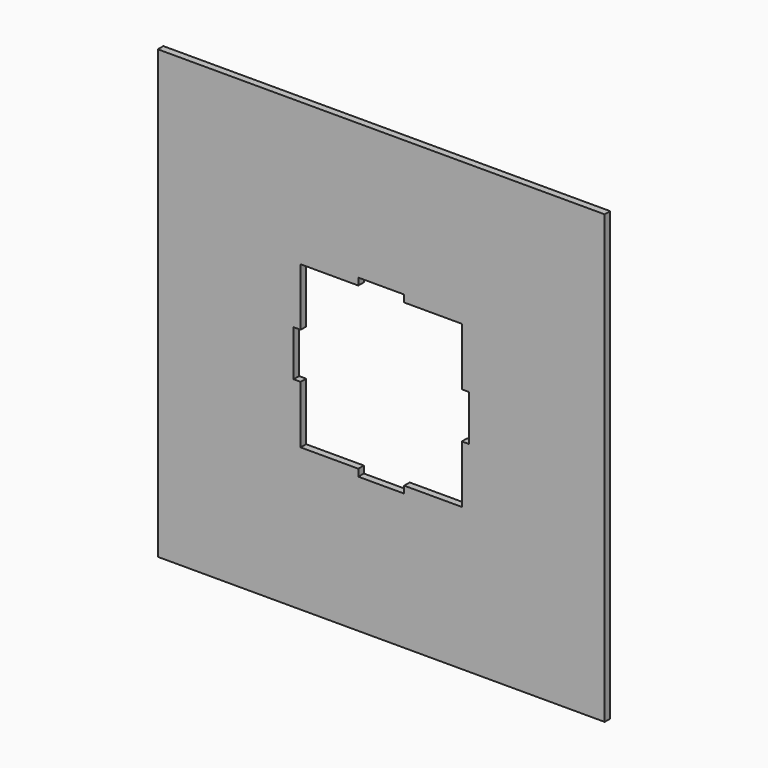
from build123d import *

# Parameters (mm, degrees)
F0_W     = 194
F0_H     = 194
F1_DEPTH = 3


with BuildPart() as f1:
    # F0 (on Front) → F1 (new body)
    with BuildSketch(Plane.XZ):
        Rectangle(F0_W, F0_H)
        Polygon((35, -9.95), (35, -35), (9.95, -35), (9.95, -38.05), (-9.95, -38.05), (-9.95, -35), (-35, -35), (-35, -9.95), (-38.05, -9.95), (-38.05, 9.95), (-35, 9.95), (-35, 35), (-9.95, 35), (-9.95, 38.05), (9.95, 38.05), (9.95, 35), (35, 35), (35, 9.95), (38.05, 9.95), (38.05, -9.95), align=None, mode=Mode.SUBTRACT)
    extrude(amount=F1_DEPTH)


solid = f1.part
